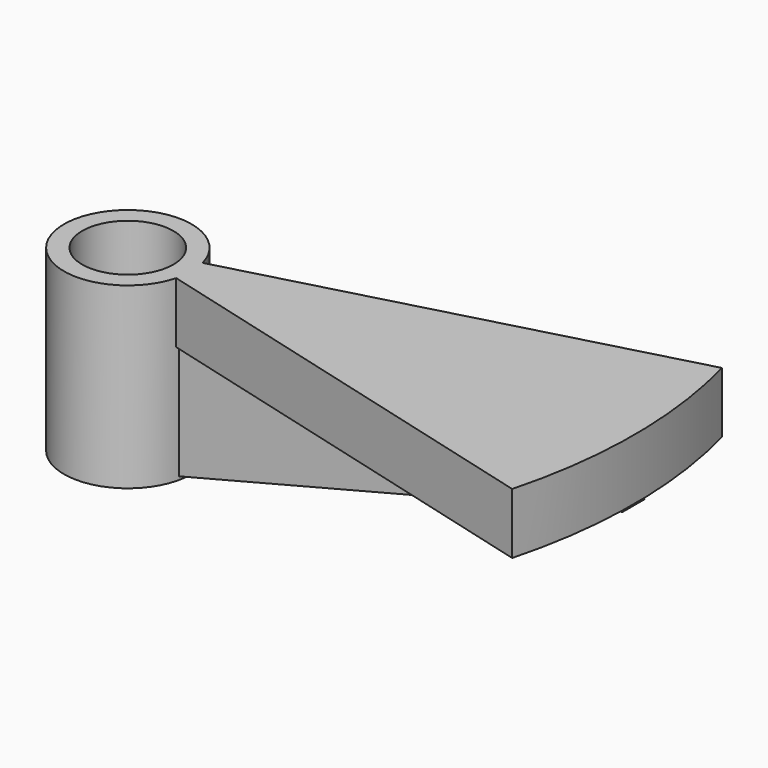
from build123d import *

# Parameters (mm, degrees)
CYLINDER013_R               = 2.25
CYLINDER013_DEPTH           = 11
CYLINDER012_R               = 3.15
CYLINDER012_DEPTH           = 8.8181
PAD_DEPTH                   = 1.35
CYLINDER011_W               = 25
CYLINDER011_H               = 3
CYLINDER011_ANGLE           = 30
CYLINDER011_PLACEMENT_ANGLE = -15


with BuildPart() as obj1:
    # Cylinder013 → Cylinder013 (new body)
    with BuildSketch(Plane.XY.offset(-1)):
        Circle(CYLINDER013_R)
    extrude(amount=CYLINDER013_DEPTH)


with BuildPart() as exterior_cilindro_central:
    # Cylinder012 → Cylinder012 (new body)
    with BuildSketch(Plane.XY):
        Circle(CYLINDER012_R)
    extrude(amount=CYLINDER012_DEPTH)


with BuildPart() as obj2:
    # Sketch → Pad (new body)
    with BuildSketch(Plane(origin=(2.12, 0.675, 0), x_dir=(1, 0, 0), z_dir=(0, -1, 0))):
        Polygon((0, -0.084088), (22.85, 5.734012), (0, 5.734012), align=None)
    extrude(amount=PAD_DEPTH)


with BuildPart() as obj3:
    # Cylinder011 → Cylinder011 (revolve)
    with BuildSketch(Plane.XZ):
        with Locations((12.5, 1.5)):
            Rectangle(CYLINDER011_W, CYLINDER011_H)
    revolve(axis=Axis((0, 0, 0), (0, 0, 1)), revolution_arc=CYLINDER011_ANGLE)


with BuildPart() as obj3_1:
    # Cylinder011 placement: moved
    add(obj3.part.moved(Location((0, 0, 5.8181))).rotate(Axis((0, 0, 5.8181), (0, 0, 1)), CYLINDER011_PLACEMENT_ANGLE))

    # Fusion019: union Exterior  cilindro central, obj2
    add(exterior_cilindro_central.part)
    add(obj2.part)

    # Cut027: cut obj1
    add(obj1.part, mode=Mode.SUBTRACT)


solid = obj3_1.part
